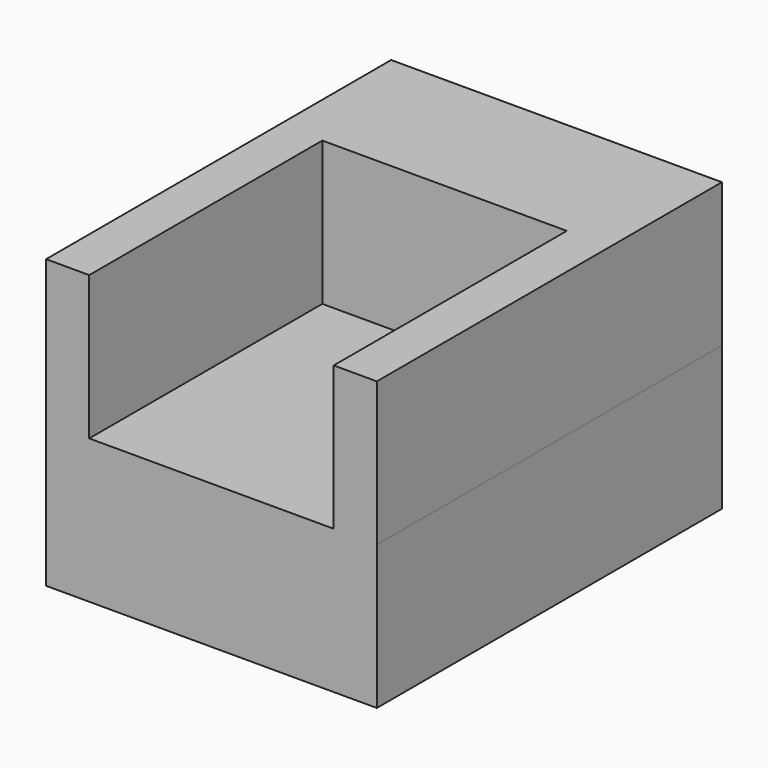
from build123d import *

# Parameters (mm, degrees)
F0_W     = 58.432497
F0_H     = 25.4
F1_DEPTH = 76.2
F3_DEPTH = 25.4


with BuildPart() as f1:
    # F0 (on Front) → F1 (new body)
    with BuildSketch(Plane.XZ):
        with Locations((29.216248, -12.7)):
            Rectangle(F0_W, F0_H)
    extrude(amount=F1_DEPTH)

    # F2 (on face) → F3 (join)
    with BuildSketch(Plane.XY):
        Polygon((7.62, -76.2), (7.62, -24.727501), (50.812497, -24.727501), (50.812497, -76.2), (58.432497, -76.2), (58.432497, 0), (0, 0), (0, -76.2), align=None)
    extrude(amount=F3_DEPTH)


solid = f1.part
